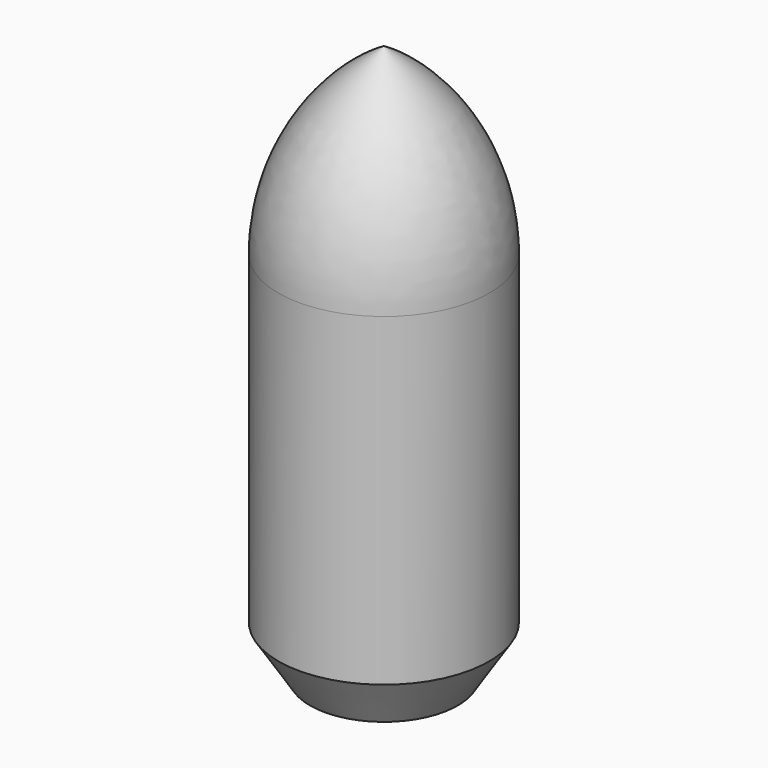
from build123d import *

# Parameters (mm, degrees)
F2_SCALE = 4.016064257


with BuildPart() as f1:
    # F0 (on Front) → F1 (revolve)
    with BuildSketch(Plane.XZ):
        with BuildLine():
            Line((0, -63.582010967), (0, 0))
            Line((0, 0), (0, 79.277989063))
            ThreePointArc((0, 79.277989063), (-19.8274507743, 59.3839180404), (-27.0818353918, 32.2495160775))
            Line((-27.0818353918, 32.2495160775), (-27.0818353918, -50.9582190075))
            Line((-27.0818353918, -50.9582190075), (-18.979999886, -63.582010967))
            Line((-18.979999886, -63.582010967), (0, -63.582010967))
        make_face()
    revolve(axis=Axis((0, 0, 7.847989048), (0, 0, -1)))


with BuildPart() as f1_1:
    # F2: moved
    add(f1.part.scale(F2_SCALE))


solid = f1_1.part
